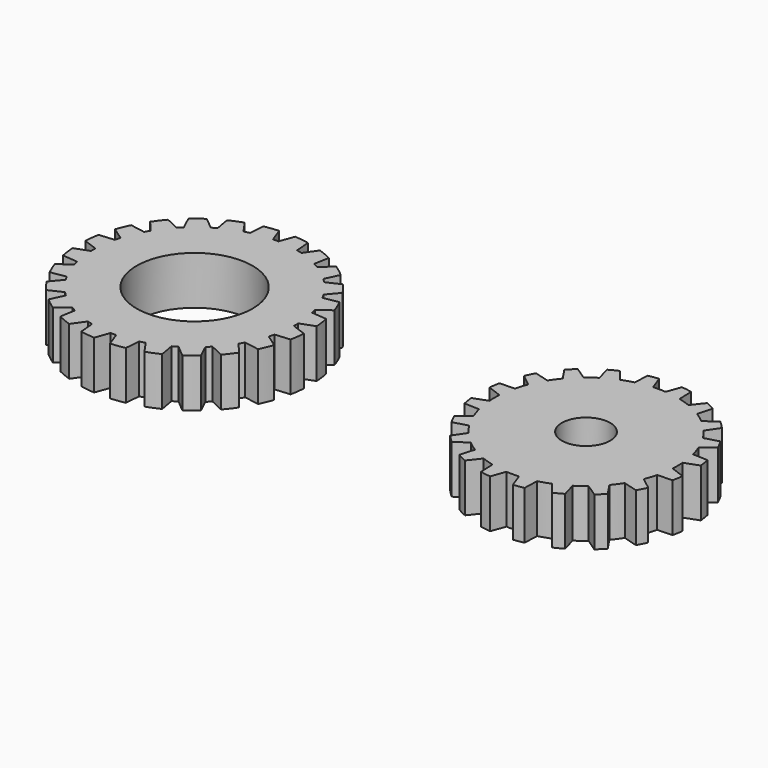
from build123d import *

# Parameters (mm, degrees)
F0_R     = 12
F0_R_2   = 6
F1_DEPTH = 5
F3_DEPTH = 5
F4_R     = 11
F4_R_2   = 2.5
F5_DEPTH = 5
F7_DEPTH = 5


with BuildPart() as f1:
    # F0 (on Top) → F1 (new body)
    with BuildSketch(Plane.XY):
        Circle(F0_R)
        Circle(F0_R_2, mode=Mode.SUBTRACT)
    extrude(amount=F1_DEPTH)

    # F2 (on Top) → F3 (cut, through all)
    with BuildSketch(Plane.XY):
        with BuildLine():
            ThreePointArc((-0.2862207746, 10.4960982116), (0, 10.5), (0.2862207746, 10.4960982116))
            Line((0.2862207746, 10.4960982116), (0.8233045486, 11.9717237531))
            ThreePointArc((0.8233045486, 11.9717237531), (0, 12), (-0.8233045486, 11.9717237531))
            Line((-0.8233045486, 11.9717237531), (-0.2862207746, 10.4960982116))
        make_face()
        with BuildLine():
            Line((-3.8937612364, 11.3507102612), (-2.9930581546, 10.0643729503))
            ThreePointArc((-2.9930581546, 10.0643729503), (-2.7175999736, 10.142221176), (-2.4401220783, 10.2125317254))
            Line((-2.4401220783, 10.2125317254), (-2.3032589836, 11.7768840554))
            ThreePointArc((-2.3032589836, 11.7768840554), (-3.1058285412, 11.5911099155), (-3.8937612364, 11.3507102612))
        make_face()
        with BuildLine():
            Line((-6.6988645307, 9.956164623), (-5.4959235677, 8.9467773046))
            ThreePointArc((-5.4959235677, 8.9467773046), (-5.25, 9.0932667397), (-5.000174644, 9.2329980792))
            Line((-5.000174644, 9.2329980792), (-5.2728592224, 10.7794691716))
            ThreePointArc((-5.2728592224, 10.7794691716), (-6, 10.3923048454), (-6.6988645307, 9.956164623))
        make_face()
        with BuildLine():
            Line((-9.0474512776, 7.883122819), (-7.6242508721, 7.2194735708))
            ThreePointArc((-7.6242508721, 7.2194735708), (-7.4246212025, 7.4246212025), (-7.2194735708, 7.6242508721))
            Line((-7.2194735708, 7.6242508721), (-7.883122819, 9.0474512776))
            ThreePointArc((-7.883122819, 9.0474512776), (-8.4852813742, 8.4852813742), (-9.0474512776, 7.883122819))
        make_face()
        with BuildLine():
            Line((-10.7794691716, 5.2728592224), (-9.2329980792, 5.000174644))
            ThreePointArc((-9.2329980792, 5.000174644), (-9.0932667397, 5.25), (-8.9467773046, 5.4959235677))
            Line((-8.9467773046, 5.4959235677), (-9.956164623, 6.6988645307))
            ThreePointArc((-9.956164623, 6.6988645307), (-10.3923048454, 6), (-10.7794691716, 5.2728592224))
        make_face()
        with BuildLine():
            Line((-11.7768840554, 2.3032589836), (-10.2125317254, 2.4401220783))
            ThreePointArc((-10.2125317254, 2.4401220783), (-10.142221176, 2.7175999736), (-10.0643729503, 2.9930581546))
            Line((-10.0643729503, 2.9930581546), (-11.3507102612, 3.8937612364))
            ThreePointArc((-11.3507102612, 3.8937612364), (-11.5911099155, 3.1058285412), (-11.7768840554, 2.3032589836))
        make_face()
        with BuildLine():
            Line((-11.9717237531, -0.8233045486), (-10.4960982116, -0.2862207746))
            ThreePointArc((-10.4960982116, -0.2862207746), (-10.5, 0), (-10.4960982116, 0.2862207746))
            Line((-10.4960982116, 0.2862207746), (-11.9717237531, 0.8233045486))
            ThreePointArc((-11.9717237531, 0.8233045486), (-12, 0), (-11.9717237531, -0.8233045486))
        make_face()
        with BuildLine():
            Line((-11.3507102612, -3.8937612364), (-10.0643729503, -2.9930581546))
            ThreePointArc((-10.0643729503, -2.9930581546), (-10.142221176, -2.7175999736), (-10.2125317254, -2.4401220783))
            Line((-10.2125317254, -2.4401220783), (-11.7768840554, -2.3032589836))
            ThreePointArc((-11.7768840554, -2.3032589836), (-11.5911099155, -3.1058285412), (-11.3507102612, -3.8937612364))
        make_face()
        with BuildLine():
            Line((-9.956164623, -6.6988645307), (-8.9467773046, -5.4959235677))
            ThreePointArc((-8.9467773046, -5.4959235677), (-9.0932667397, -5.25), (-9.2329980792, -5.000174644))
            Line((-9.2329980792, -5.000174644), (-10.7794691716, -5.2728592224))
            ThreePointArc((-10.7794691716, -5.2728592224), (-10.3923048454, -6), (-9.956164623, -6.6988645307))
        make_face()
        with BuildLine():
            Line((-7.883122819, -9.0474512776), (-7.2194735708, -7.6242508721))
            ThreePointArc((-7.2194735708, -7.6242508721), (-7.4246212025, -7.4246212025), (-7.6242508721, -7.2194735708))
            Line((-7.6242508721, -7.2194735708), (-9.0474512776, -7.883122819))
            ThreePointArc((-9.0474512776, -7.883122819), (-8.4852813742, -8.4852813742), (-7.883122819, -9.0474512776))
        make_face()
        with BuildLine():
            Line((-5.2728592224, -10.7794691716), (-5.000174644, -9.2329980792))
            ThreePointArc((-5.000174644, -9.2329980792), (-5.25, -9.0932667397), (-5.4959235677, -8.9467773046))
            Line((-5.4959235677, -8.9467773046), (-6.6988645307, -9.956164623))
            ThreePointArc((-6.6988645307, -9.956164623), (-6, -10.3923048454), (-5.2728592224, -10.7794691716))
        make_face()
        with BuildLine():
            Line((-2.3032589836, -11.7768840554), (-2.4401220783, -10.2125317254))
            ThreePointArc((-2.4401220783, -10.2125317254), (-2.7175999736, -10.142221176), (-2.9930581546, -10.0643729503))
            Line((-2.9930581546, -10.0643729503), (-3.8937612364, -11.3507102612))
            ThreePointArc((-3.8937612364, -11.3507102612), (-3.1058285412, -11.5911099155), (-2.3032589836, -11.7768840554))
        make_face()
        with BuildLine():
            Line((0.8233045486, -11.9717237531), (0.2862207746, -10.4960982116))
            ThreePointArc((0.2862207746, -10.4960982116), (0, -10.5), (-0.2862207746, -10.4960982116))
            Line((-0.2862207746, -10.4960982116), (-0.8233045486, -11.9717237531))
            ThreePointArc((-0.8233045486, -11.9717237531), (0, -12), (0.8233045486, -11.9717237531))
        make_face()
        with BuildLine():
            Line((3.8937612364, -11.3507102612), (2.9930581546, -10.0643729503))
            ThreePointArc((2.9930581546, -10.0643729503), (2.7175999736, -10.142221176), (2.4401220783, -10.2125317254))
            Line((2.4401220783, -10.2125317254), (2.3032589836, -11.7768840554))
            ThreePointArc((2.3032589836, -11.7768840554), (3.1058285412, -11.5911099155), (3.8937612364, -11.3507102612))
        make_face()
        with BuildLine():
            Line((6.6988645307, -9.956164623), (5.4959235677, -8.9467773046))
            ThreePointArc((5.4959235677, -8.9467773046), (5.25, -9.0932667397), (5.000174644, -9.2329980792))
            Line((5.000174644, -9.2329980792), (5.2728592224, -10.7794691716))
            ThreePointArc((5.2728592224, -10.7794691716), (6, -10.3923048454), (6.6988645307, -9.956164623))
        make_face()
        with BuildLine():
            Line((9.0474512776, -7.883122819), (7.6242508721, -7.2194735708))
            ThreePointArc((7.6242508721, -7.2194735708), (7.4246212025, -7.4246212025), (7.2194735708, -7.6242508721))
            Line((7.2194735708, -7.6242508721), (7.883122819, -9.0474512776))
            ThreePointArc((7.883122819, -9.0474512776), (8.4852813742, -8.4852813742), (9.0474512776, -7.883122819))
        make_face()
        with BuildLine():
            Line((10.7794691716, -5.2728592224), (9.2329980792, -5.000174644))
            ThreePointArc((9.2329980792, -5.000174644), (9.0932667397, -5.25), (8.9467773046, -5.4959235677))
            Line((8.9467773046, -5.4959235677), (9.956164623, -6.6988645307))
            ThreePointArc((9.956164623, -6.6988645307), (10.3923048454, -6), (10.7794691716, -5.2728592224))
        make_face()
        with BuildLine():
            Line((11.7768840554, -2.3032589836), (10.2125317254, -2.4401220783))
            ThreePointArc((10.2125317254, -2.4401220783), (10.142221176, -2.7175999736), (10.0643729503, -2.9930581546))
            Line((10.0643729503, -2.9930581546), (11.3507102612, -3.8937612364))
            ThreePointArc((11.3507102612, -3.8937612364), (11.5911099155, -3.1058285412), (11.7768840554, -2.3032589836))
        make_face()
        with BuildLine():
            Line((11.9717237531, 0.8233045486), (10.4960982116, 0.2862207746))
            ThreePointArc((10.4960982116, 0.2862207746), (10.5, 0), (10.4960982116, -0.2862207746))
            Line((10.4960982116, -0.2862207746), (11.9717237531, -0.8233045486))
            ThreePointArc((11.9717237531, -0.8233045486), (12, 0), (11.9717237531, 0.8233045486))
        make_face()
        with BuildLine():
            Line((11.3507102612, 3.8937612364), (10.0643729503, 2.9930581546))
            ThreePointArc((10.0643729503, 2.9930581546), (10.142221176, 2.7175999736), (10.2125317254, 2.4401220783))
            Line((10.2125317254, 2.4401220783), (11.7768840554, 2.3032589836))
            ThreePointArc((11.7768840554, 2.3032589836), (11.5911099155, 3.1058285412), (11.3507102612, 3.8937612364))
        make_face()
        with BuildLine():
            Line((9.956164623, 6.6988645307), (8.9467773046, 5.4959235677))
            ThreePointArc((8.9467773046, 5.4959235677), (9.0932667397, 5.25), (9.2329980792, 5.000174644))
            Line((9.2329980792, 5.000174644), (10.7794691716, 5.2728592224))
            ThreePointArc((10.7794691716, 5.2728592224), (10.3923048454, 6), (9.956164623, 6.6988645307))
        make_face()
        with BuildLine():
            Line((7.883122819, 9.0474512776), (7.2194735708, 7.6242508721))
            ThreePointArc((7.2194735708, 7.6242508721), (7.4246212025, 7.4246212025), (7.6242508721, 7.2194735708))
            Line((7.6242508721, 7.2194735708), (9.0474512776, 7.883122819))
            ThreePointArc((9.0474512776, 7.883122819), (8.4852813742, 8.4852813742), (7.883122819, 9.0474512776))
        make_face()
        with BuildLine():
            Line((5.2728592224, 10.7794691716), (5.000174644, 9.2329980792))
            ThreePointArc((5.000174644, 9.2329980792), (5.25, 9.0932667397), (5.4959235677, 8.9467773046))
            Line((5.4959235677, 8.9467773046), (6.6988645307, 9.956164623))
            ThreePointArc((6.6988645307, 9.956164623), (6, 10.3923048454), (5.2728592224, 10.7794691716))
        make_face()
        with BuildLine():
            Line((2.3032589836, 11.7768840554), (2.4401220783, 10.2125317254))
            ThreePointArc((2.4401220783, 10.2125317254), (2.7175999736, 10.142221176), (2.9930581546, 10.0643729503))
            Line((2.9930581546, 10.0643729503), (3.8937612364, 11.3507102612))
            ThreePointArc((3.8937612364, 11.3507102612), (3.1058285412, 11.5911099155), (2.3032589836, 11.7768840554))
        make_face()
    extrude(amount=F3_DEPTH, mode=Mode.SUBTRACT)


with BuildPart() as f5:
    # F4 (on Top) → F5 (new body)
    with BuildSketch(Plane.XY):
        with Locations((40.5042527984, 0)):
            Circle(F4_R)
        with Locations((40.5042527984, 0)):
            Circle(F4_R_2, mode=Mode.SUBTRACT)
    extrude(amount=F5_DEPTH)

    # F6 (on face) → F7 (cut, through all)
    with BuildSketch(Plane(origin=(0, 0, 0), x_dir=(1, 0, 0), z_dir=(0, 0, -1))):
        with BuildLine():
            ThreePointArc((41.1513909289, -9.4779329097), (40.5042527984, -9.5), (39.8571146678, -9.4779329097))
            Line((39.8571146678, -9.4779329097), (39.3261555533, -10.9367310875))
            ThreePointArc((39.3261555533, -10.9367310875), (40.5042527984, -11), (41.6823500435, -10.9367310875))
            Line((41.6823500435, -10.9367310875), (41.1513909289, -9.4779329097))
        make_face()
        with BuildLine():
            ThreePointArc((44.048560075, -8.8140731747), (43.4399142449, -9.0350369048), (42.817630203, -9.2140265348))
            Line((42.817630203, -9.2140265348), (42.7634515056, -10.7655014375))
            ThreePointArc((42.7634515056, -10.7655014375), (43.9034397365, -10.4616216792), (45.0043256291, -10.037397298))
            Line((45.0043256291, -10.037397298), (44.048560075, -8.8140731747))
        make_face()
        with BuildLine():
            ThreePointArc((46.5987877302, -7.2874305461), (46.0882126952, -7.6856614466), (45.5516962396, -8.0481870448))
            Line((45.5516962396, -8.0481870448), (45.9796013476, -9.5404694992))
            ThreePointArc((45.9796013476, -9.5404694992), (46.9698905736, -8.8991869381), (47.8858027322, -8.1555331263))
            Line((47.8858027322, -8.1555331263), (46.5987877302, -7.2874305461))
        make_face()
        with BuildLine():
            ThreePointArc((48.5524398432, -5.0474434412), (48.1899142449, -5.5839598968), (47.7916833445, -6.0945349318))
            Line((47.7916833445, -6.0945349318), (48.6597859247, -7.3815499339))
            ThreePointArc((48.6597859247, -7.3815499339), (49.4034397365, -6.4656377752), (50.0447222975, -5.4753485492))
            Line((50.0447222975, -5.4753485492), (48.5524398432, -5.0474434412))
        make_face()
        with BuildLine():
            ThreePointArc((49.7182793332, -2.3133774046), (49.5392897032, -2.9356614466), (49.3183259731, -3.5443072766))
            Line((49.3183259731, -3.5443072766), (50.5416500964, -4.5000728307))
            ThreePointArc((50.5416500964, -4.5000728307), (50.9658744776, -3.3991869381), (51.2697542359, -2.2591987072))
            Line((51.2697542359, -2.2591987072), (49.7182793332, -2.3133774046))
        make_face()
        with BuildLine():
            ThreePointArc((49.982185708, 0.6471381305), (50.0042527984, 0), (49.982185708, -0.6471381305))
            Line((49.982185708, -0.6471381305), (51.4409838859, -1.1780972451))
            ThreePointArc((51.4409838859, -1.1780972451), (51.5042527984, 0), (51.4409838859, 1.1780972451))
            Line((51.4409838859, 1.1780972451), (49.982185708, 0.6471381305))
        make_face()
        with BuildLine():
            ThreePointArc((49.3183259731, 3.5443072766), (49.5392897032, 2.9356614466), (49.7182793332, 2.3133774046))
            Line((49.7182793332, 2.3133774046), (51.2697542359, 2.2591987072))
            ThreePointArc((51.2697542359, 2.2591987072), (50.9658744776, 3.3991869381), (50.5416500964, 4.5000728307))
            Line((50.5416500964, 4.5000728307), (49.3183259731, 3.5443072766))
        make_face()
        with BuildLine():
            ThreePointArc((47.7916833445, 6.0945349318), (48.1899142449, 5.5839598968), (48.5524398432, 5.0474434412))
            Line((48.5524398432, 5.0474434412), (50.0447222975, 5.4753485492))
            ThreePointArc((50.0447222975, 5.4753485492), (49.4034397365, 6.4656377752), (48.6597859247, 7.3815499339))
            Line((48.6597859247, 7.3815499339), (47.7916833445, 6.0945349318))
        make_face()
        with BuildLine():
            ThreePointArc((45.5516962396, 8.0481870448), (46.0882126952, 7.6856614466), (46.5987877302, 7.2874305461))
            Line((46.5987877302, 7.2874305461), (47.8858027322, 8.1555331263))
            ThreePointArc((47.8858027322, 8.1555331263), (46.9698905736, 8.8991869381), (45.9796013476, 9.5404694992))
            Line((45.9796013476, 9.5404694992), (45.5516962396, 8.0481870448))
        make_face()
        with BuildLine():
            ThreePointArc((42.817630203, 9.2140265348), (43.4399142449, 9.0350369048), (44.048560075, 8.8140731747))
            Line((44.048560075, 8.8140731747), (45.0043256291, 10.037397298))
            ThreePointArc((45.0043256291, 10.037397298), (43.9034397365, 10.4616216792), (42.7634515056, 10.7655014375))
            Line((42.7634515056, 10.7655014375), (42.817630203, 9.2140265348))
        make_face()
        with BuildLine():
            ThreePointArc((39.8571146678, 9.4779329097), (40.5042527984, 9.5), (41.1513909289, 9.4779329097))
            Line((41.1513909289, 9.4779329097), (41.6823500435, 10.9367310875))
            ThreePointArc((41.6823500435, 10.9367310875), (40.5042527984, 11), (39.3261555533, 10.9367310875))
            Line((39.3261555533, 10.9367310875), (39.8571146678, 9.4779329097))
        make_face()
        with BuildLine():
            ThreePointArc((36.9599455218, 8.8140731747), (37.5685913518, 9.0350369048), (38.1908753938, 9.2140265348))
            Line((38.1908753938, 9.2140265348), (38.2450540912, 10.7655014375))
            ThreePointArc((38.2450540912, 10.7655014375), (37.1050658603, 10.4616216792), (36.0041799676, 10.037397298))
            Line((36.0041799676, 10.037397298), (36.9599455218, 8.8140731747))
        make_face()
        with BuildLine():
            ThreePointArc((34.4097178665, 7.2874305461), (34.9202929016, 7.6856614466), (35.4568093572, 8.0481870448))
            Line((35.4568093572, 8.0481870448), (35.0289042491, 9.5404694992))
            ThreePointArc((35.0289042491, 9.5404694992), (34.0386150232, 8.8991869381), (33.1227028645, 8.1555331263))
            Line((33.1227028645, 8.1555331263), (34.4097178665, 7.2874305461))
        make_face()
        with BuildLine():
            ThreePointArc((32.4560657536, 5.0474434412), (32.8185913518, 5.5839598968), (33.2168222523, 6.0945349318))
            Line((33.2168222523, 6.0945349318), (32.3487196721, 7.3815499339))
            ThreePointArc((32.3487196721, 7.3815499339), (31.6050658603, 6.4656377752), (30.9637832992, 5.4753485492))
            Line((30.9637832992, 5.4753485492), (32.4560657536, 5.0474434412))
        make_face()
        with BuildLine():
            ThreePointArc((31.2902262636, 2.3133774046), (31.4692158936, 2.9356614466), (31.6901796237, 3.5443072766))
            Line((31.6901796237, 3.5443072766), (30.4668555004, 4.5000728307))
            ThreePointArc((30.4668555004, 4.5000728307), (30.0426311191, 3.3991869381), (29.7387513609, 2.2591987072))
            Line((29.7387513609, 2.2591987072), (31.2902262636, 2.3133774046))
        make_face()
        with BuildLine():
            ThreePointArc((31.0263198887, -0.6471381305), (31.0042527984, 0), (31.0263198887, 0.6471381305))
            Line((31.0263198887, 0.6471381305), (29.5675217108, 1.1780972451))
            ThreePointArc((29.5675217108, 1.1780972451), (29.5042527984, 0), (29.5675217108, -1.1780972451))
            Line((29.5675217108, -1.1780972451), (31.0263198887, -0.6471381305))
        make_face()
        with BuildLine():
            ThreePointArc((31.6901796237, -3.5443072766), (31.4692158936, -2.9356614466), (31.2902262636, -2.3133774046))
            Line((31.2902262636, -2.3133774046), (29.7387513609, -2.2591987072))
            ThreePointArc((29.7387513609, -2.2591987072), (30.0426311191, -3.3991869381), (30.4668555004, -4.5000728307))
            Line((30.4668555004, -4.5000728307), (31.6901796237, -3.5443072766))
        make_face()
        with BuildLine():
            ThreePointArc((33.2168222523, -6.0945349318), (32.8185913518, -5.5839598968), (32.4560657536, -5.0474434412))
            Line((32.4560657536, -5.0474434412), (30.9637832992, -5.4753485492))
            ThreePointArc((30.9637832992, -5.4753485492), (31.6050658603, -6.4656377752), (32.3487196721, -7.3815499339))
            Line((32.3487196721, -7.3815499339), (33.2168222523, -6.0945349318))
        make_face()
        with BuildLine():
            ThreePointArc((35.4568093572, -8.0481870448), (34.9202929016, -7.6856614466), (34.4097178665, -7.2874305461))
            Line((34.4097178665, -7.2874305461), (33.1227028645, -8.1555331263))
            ThreePointArc((33.1227028645, -8.1555331263), (34.0386150232, -8.8991869381), (35.0289042491, -9.5404694992))
            Line((35.0289042491, -9.5404694992), (35.4568093572, -8.0481870448))
        make_face()
        with BuildLine():
            ThreePointArc((38.1908753938, -9.2140265348), (37.5685913518, -9.0350369048), (36.9599455218, -8.8140731747))
            Line((36.9599455218, -8.8140731747), (36.0041799676, -10.037397298))
            ThreePointArc((36.0041799676, -10.037397298), (37.1050658603, -10.4616216792), (38.2450540912, -10.7655014375))
            Line((38.2450540912, -10.7655014375), (38.1908753938, -9.2140265348))
        make_face()
    extrude(amount=-F7_DEPTH, mode=Mode.SUBTRACT)


solid = Compound([f1.part, f5.part])
